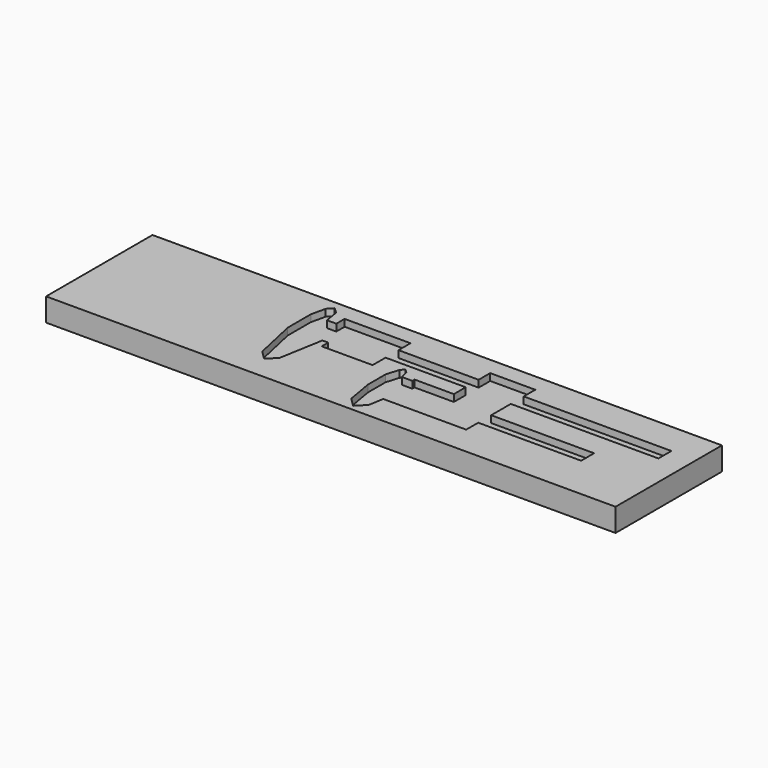
from build123d import *

# Parameters (mm, degrees)
F0_W     = 625.475
F0_H     = 146.05
F3_DEPTH = 25.4
F4_DEPTH = 7.62
F2_W     = 49.53
F2_H     = 17.78
F2_H_2   = 16.2543391211
F2_W_2   = 162.1558675107
F2_H_3   = 15.875
F5_DEPTH = 7.62


with BuildPart() as f3:
    # F0 (on Top) → F3 (new body)
    with BuildSketch(Plane.XY):
        Rectangle(F0_W, F0_H)
    extrude(amount=-F3_DEPTH)

    # F1 (on Top) → F4 (cut)
    with BuildSketch(Plane.XY):
        Polygon((5.1413444427, -28.5038674987), (10.2213444427, -57.7138674987), (19.7463444427, -67.2388674987), (29.2713444427, -57.7138674987), (32.1426487905, -41.2038674987), (123.2513444427, -41.2038674987), (123.2513444427, -24.6938674987), (236.2813444427, -24.6938674987), (236.2813444427, -6.9138674987), (123.2513444427, -6.9138674987), (123.2513444427, 3.7541325013), (30.5413444427, 3.7541325013), (30.5413444427, 0.7061325013), (30.5413444427, -4.3738674987), (20.3813444427, -4.3738674987), (19.0962397041, 0.7061325013), (16.8448203131, 9.6059600121), (12.7613444427, 13.4061325013), (9.2248203131, 9.6059600121), (5.1413444427, -4.3738674987), align=None)
        Polygon((30.5413444427, 0.7061325013), (19.0962397041, 0.7061325013), (20.3813444427, -4.3738674987), (30.5413444427, -4.3738674987), align=None)
    extrude(amount=-F4_DEPTH, mode=Mode.SUBTRACT)

    # F2 (on Top) → F5 (cut)
    with BuildSketch(Plane.XY):
        Polygon((-114.6427880466, 11.1184716225), (-104.0148213506, -37.1415283775), (-94.4898213506, -46.6665283775), (-84.9648213506, -37.1415283775), (-76.5427880466, 11.1184716225), (-70.1927880466, 11.1184716225), (-70.1927880466, 2.2284716225), (-14.3127880466, 2.2284716225), (-14.3127880466, 20.0084716225), (73.7213444427, 20.0084716225), (73.7213444427, 37.7884716225), (-14.3127880466, 37.7884716225), (-14.3127880466, 54.2984716225), (-86.7027880466, 54.2984716225), (-86.7027880466, 42.8684716225), (-96.8627880466, 42.8684716225), (-99.627574241, 58.7582128885), (-105.7527880466, 64.4584716225), (-111.057574241, 58.7582128885), (-114.6427880466, 42.8684716225), align=None)
        with Locations((98.4863444427, 28.8984716225)):
            Rectangle(F2_W, F2_H)
        with Locations((98.4863444427, 11.8813020619)):
            Rectangle(F2_W, F2_H_2)
        with Locations((204.329278198, 28.8984716225)):
            Rectangle(F2_W_2, F2_H)
        with Locations((98.4863444427, 45.7259716225)):
            Rectangle(F2_W, F2_H_3)
    extrude(amount=-F5_DEPTH, mode=Mode.SUBTRACT)


solid = f3.part
